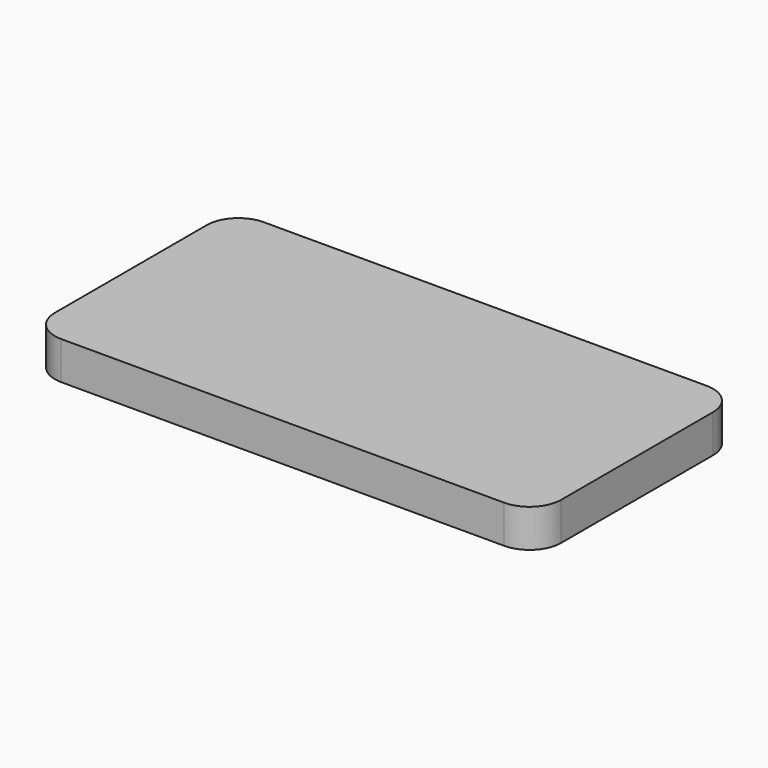
from build123d import *

# Parameters (mm, degrees)
F0_W     = 80
F0_H     = 40
F1_DEPTH = 6
F2_R     = 5
F3_R     = 5
F4_R     = 5
F5_R     = 5


with BuildPart() as f1:
    # F0 (on Top) → F1 (new body)
    with BuildSketch(Plane.XY):
        with Locations((40, 20)):
            Rectangle(F0_W, F0_H)
    extrude(amount=F1_DEPTH)

    # F2
    f2_edges = [f1.edges().sort_by_distance(p)[0] for p in [
        (0, 40, 3),
    ]]
    fillet(f2_edges, radius=F2_R)

    # F3
    f3_edges = [f1.edges().sort_by_distance(p)[0] for p in [
        (80, 40, 3),
    ]]
    fillet(f3_edges, radius=F3_R)

    # F4
    f4_edges = [f1.edges().sort_by_distance(p)[0] for p in [
        (80, 0, 3),
    ]]
    fillet(f4_edges, radius=F4_R)

    # F5
    f5_edges = [f1.edges().sort_by_distance(p)[0] for p in [
        (0, 0, 3),
    ]]
    fillet(f5_edges, radius=F5_R)


solid = f1.part
